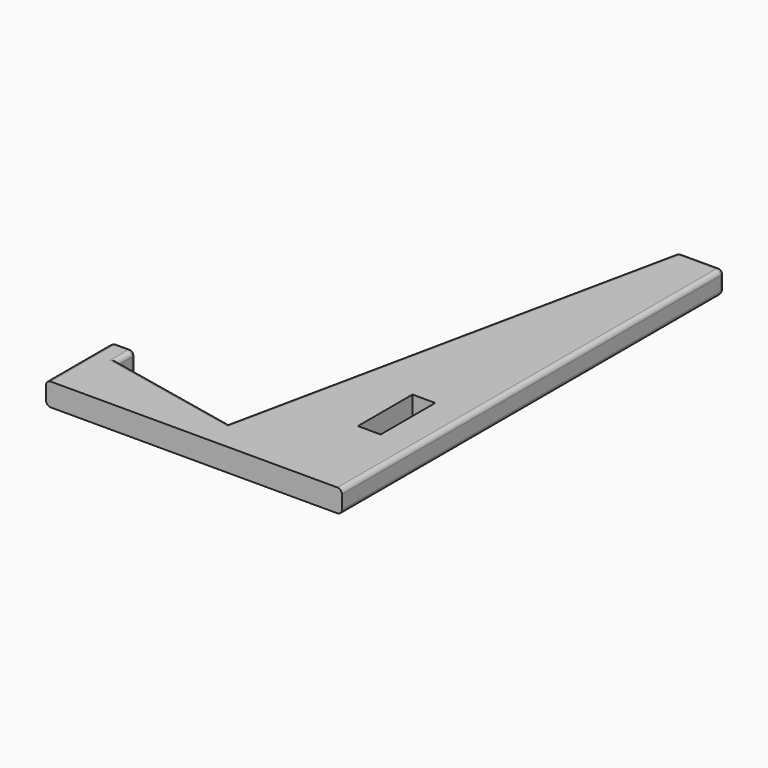
from build123d import *

# Parameters (mm, degrees)
SKETCH_W      = 5
SKETCH_H      = 15
EXTRUDE_DEPTH = 5
FILLET_R      = 1


with BuildPart() as part:
    # Sketch → Extrude (new body)
    with BuildSketch(Plane.XY):
        Polygon((10, 77.5), (10, -27.5), (-55, -27.5), (-55, -9.151514), (-50, -9.151514), (-50, -14.151514), (-20.646372, -20.345426), (0, 77.5), align=None)
        Rectangle(SKETCH_W, SKETCH_H, mode=Mode.SUBTRACT)
    extrude(amount=EXTRUDE_DEPTH)

    # Fillet
    fillet_edges = [part.edges().sort_by_distance(p)[0] for p in [
        (10, 77.5, 2.5),
        (10, 25, 0),
        (10, 25, 5),
        (-55, -9.151514, 2.5),
        (-55, -18.325757, 0),
        (-55, -18.325757, 5),
        (-50, -9.151514, 2.5),
        (-52.5, -9.151514, 0),
        (-52.5, -9.151514, 5),
        (-50, -11.651514, 0),
        (-50, -11.651514, 5),
        (-35.323186, -17.24847, 0),
        (-35.323186, -17.24847, 5),
        (0, 77.5, 2.5),
        (-10.323186, 28.577287, 0),
        (-10.323186, 28.577287, 5),
        (5, 77.5, 0),
        (5, 77.5, 5),
    ]]
    fillet(fillet_edges, radius=FILLET_R)


solid = part.part
